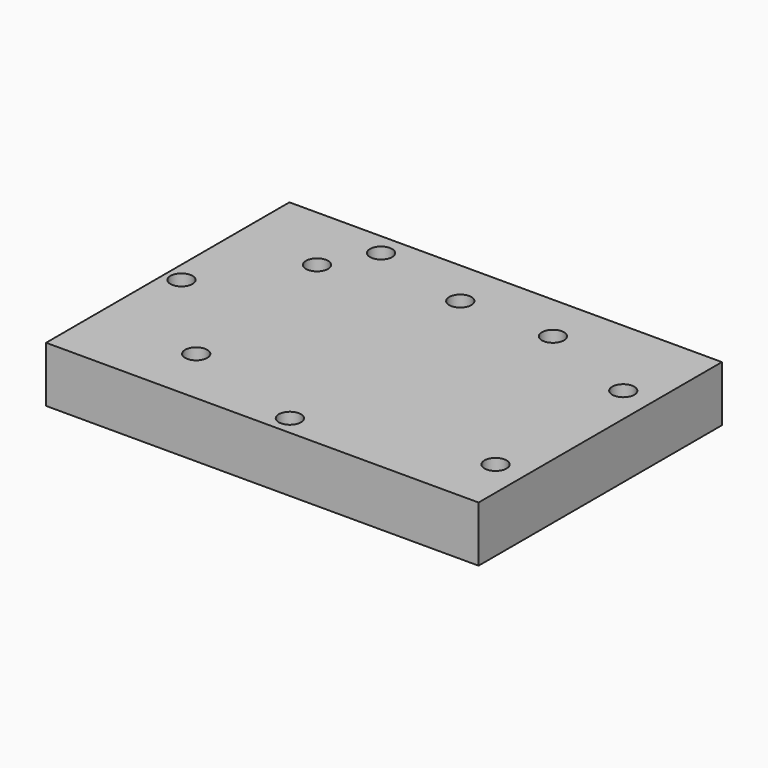
from build123d import *

# Parameters (mm, degrees)
F0_W     = 197.4653229117
F0_H     = 138.8678848743
F1_DEPTH = 25.4
F3_D     = 10.0838


with BuildPart() as f1:
    # F0 (on Top) → F1 (new body)
    with BuildSketch(Plane.XY):
        with Locations((-18.26152578, 1.4047324657)):
            Rectangle(F0_W, F0_H)
    extrude(amount=F1_DEPTH)

    # F3 (through all)
    with Locations(Plane.XY.offset(25.4)):
        with Locations((-69.843813777, -41.2945002317), (-79.1306421161, 39.2586626112), (-109.5984131098, 0), (66.8341070414, -41.2945002317), (66.8341070414, 31.5869301558), (-21.7945594341, 49.3530444801), (21.005615592, 48.7473793328), (-67.017391324, 60.6587529182), (-12.7096157521, -59.2624992132)):
            Hole(F3_D / 2)


solid = f1.part
